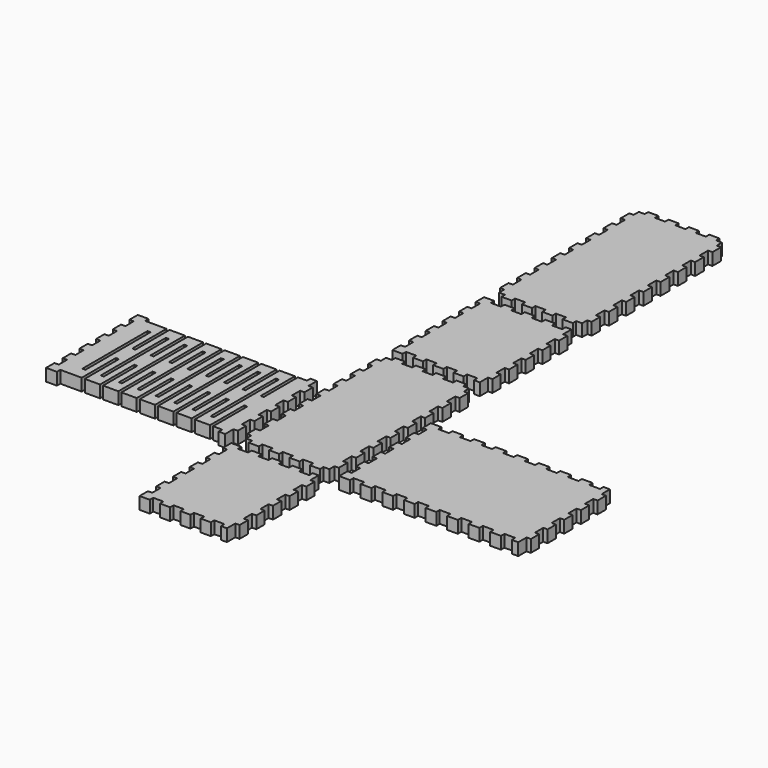
from build123d import *

# Parameters (mm, degrees)
F0_W     = 1.27
F0_H     = 33.893155
F1_DEPTH = 5.08


with BuildPart() as f1:
    # F0 (on Top) → F1 (new body)
    with BuildSketch(Plane.XY):
        Polygon((-17.264052, 57.732358), (-17.264052, 55.035987), (-14.816654, 55.035987), (-14.816654, 53.250048), (-10.583318, 53.250048), (-10.583318, 55.035987), (-6.349982, 55.035987), (-6.349982, 53.250048), (-2.116645, 53.250048), (-2.116645, 55.035987), (2.116691, 55.035987), (2.116691, 53.250048), (6.350027, 53.250048), (6.350027, 55.035987), (10.583363, 55.035987), (10.583363, 53.250048), (14.816699, 53.250048), (14.816699, 55.035987), (17.264097, 55.035987), (17.264097, 57.732358), (19.050036, 57.732358), (19.050036, 62.214799), (17.264097, 62.214799), (17.264097, 66.697109), (19.050036, 66.697109), (19.050036, 71.179418), (17.264097, 71.179418), (17.264097, 75.66186), (19.050036, 75.66186), (19.050036, 80.14417), (17.264097, 80.14417), (17.264097, 84.626479), (19.050036, 84.626479), (19.050036, 89.108921), (17.264097, 89.108921), (17.264097, 93.59123), (19.050036, 93.59123), (19.050036, 98.073539), (17.264097, 98.073539), (17.264097, 102.555981), (19.050036, 102.555981), (19.050036, 107.03829), (17.264097, 107.03829), (17.264097, 111.5206), (19.050036, 111.5206), (19.050036, 116.003041), (17.264097, 116.003041), (17.264097, 120.485351), (19.050036, 120.485351), (19.050036, 124.96766), (17.264097, 124.96766), (17.264097, 127.664163), (14.816699, 127.664163), (14.816699, 129.450102), (10.583363, 129.450102), (10.583363, 127.664163), (6.350027, 127.664163), (6.350027, 129.450102), (2.116691, 129.450102), (2.116691, 127.664163), (-2.116645, 127.664163), (-2.116645, 129.450102), (-6.349982, 129.450102), (-6.349982, 127.664163), (-10.583318, 127.664163), (-10.583318, 129.450102), (-14.816654, 129.450102), (-14.816654, 127.664163), (-17.264052, 127.664163), (-17.264052, 124.96766), (-19.049991, 124.96766), (-19.049991, 120.485351), (-17.264052, 120.485351), (-17.264052, 116.003041), (-19.049991, 116.003041), (-19.049991, 111.5206), (-17.264052, 111.5206), (-17.264052, 107.03829), (-19.049991, 107.03829), (-19.049991, 102.555981), (-17.264052, 102.555981), (-17.264052, 98.073539), (-19.049991, 98.073539), (-19.049991, 93.59123), (-17.264052, 93.59123), (-17.264052, 89.108921), (-19.049991, 89.108921), (-19.049991, 84.626479), (-17.264052, 84.626479), (-17.264052, 80.14417), (-19.049991, 80.14417), (-19.049991, 75.66186), (-17.264052, 75.66186), (-17.264052, 71.179418), (-19.049991, 71.179418), (-19.049991, 66.697109), (-17.264052, 66.697109), (-17.264052, 62.214799), (-19.049991, 62.214799), (-19.049991, 57.732358), align=None)
        Polygon((-19.049991, 6.204586), (-19.049991, 1.874941), (-14.816654, 1.874941), (-14.816654, 3.660879), (-10.583318, 3.660879), (-10.583318, 1.874941), (-6.349982, 1.874941), (-6.349982, 3.660879), (-2.116645, 3.660879), (-2.116645, 1.874941), (2.116691, 1.874941), (2.116691, 3.660879), (6.350027, 3.660879), (6.350027, 1.874941), (10.583363, 1.874941), (10.583363, 3.660879), (14.816699, 3.660879), (14.816699, 1.874941), (17.264097, 1.874941), (17.264097, 6.204586), (19.050036, 6.204586), (19.050036, 10.534098), (17.264097, 10.534098), (17.264097, 14.86361), (19.050036, 14.86361), (19.050036, 19.193123), (17.264097, 19.193123), (17.264097, 23.522767), (19.050036, 23.522767), (19.050036, 27.85228), (17.264097, 27.85228), (17.264097, 32.181792), (19.050036, 32.181792), (19.050036, 36.511437), (17.264097, 36.511437), (17.264097, 40.840949), (19.050036, 40.840949), (19.050036, 45.170462), (17.264097, 45.170462), (17.264097, 49.499974), (14.816699, 49.499974), (14.816699, 47.714035), (10.583363, 47.714035), (10.583363, 49.499974), (6.350027, 49.499974), (6.350027, 47.714035), (2.116691, 47.714035), (2.116691, 49.499974), (-2.116645, 49.499974), (-2.116645, 47.714035), (-6.349982, 47.714035), (-6.349982, 49.499974), (-10.583318, 49.499974), (-10.583318, 47.714035), (-14.816654, 47.714035), (-14.816654, 49.499974), (-19.049991, 49.499974), (-19.049991, 45.170462), (-17.264052, 45.170462), (-17.264052, 40.840949), (-19.049991, 40.840949), (-19.049991, 36.511437), (-17.264052, 36.511437), (-17.264052, 32.181792), (-19.049991, 32.181792), (-19.049991, 27.85228), (-17.264052, 27.85228), (-17.264052, 23.522767), (-19.049991, 23.522767), (-19.049991, 19.193123), (-17.264052, 19.193123), (-17.264052, 14.86361), (-19.049991, 14.86361), (-19.049991, 10.534098), (-17.264052, 10.534098), (-17.264052, 6.204586), align=None)
        Polygon((-17.264052, -73.592706), (-17.264052, -76.289129), (-14.816654, -76.289129), (-14.816654, -78.075068), (-10.583318, -78.075068), (-10.583318, -76.289129), (-6.349982, -76.289129), (-6.349982, -78.075068), (-2.116645, -78.075068), (-2.116645, -76.289129), (2.116691, -76.289129), (2.116691, -78.075068), (6.350027, -78.075068), (6.350027, -76.289129), (10.583363, -76.289129), (10.583363, -78.075068), (14.816699, -78.075068), (14.816699, -76.289129), (17.264097, -76.289129), (17.264097, -73.592706), (19.050036, -73.592706), (19.050036, -69.110356), (17.264097, -69.110356), (17.264097, -64.627994), (19.050036, -64.627994), (19.050036, -60.145645), (17.264097, -60.145645), (17.264097, -55.663283), (19.050036, -55.663283), (19.050036, -51.180934), (17.264097, -51.180934), (17.264097, -46.698572), (19.050036, -46.698572), (19.050036, -42.216223), (17.264097, -42.216223), (17.264097, -37.73386), (19.050036, -37.73386), (19.050036, -33.251511), (17.264097, -33.251511), (17.264097, -28.769149), (19.050036, -28.769149), (19.050036, -24.2868), (17.264097, -24.2868), (17.264097, -19.804437), (19.050036, -19.804437), (19.050036, -15.322075), (17.264097, -15.322075), (17.264097, -10.839726), (19.050036, -10.839726), (19.050036, -6.357364), (17.264097, -6.357364), (17.264097, -3.660954), (14.816699, -3.660954), (14.816699, -1.875015), (10.583363, -1.875015), (10.583363, -3.660954), (6.350027, -3.660954), (6.350027, -1.875015), (2.116691, -1.875015), (2.116691, -3.660954), (-2.116645, -3.660954), (-2.116645, -1.875015), (-6.349982, -1.875015), (-6.349982, -3.660954), (-10.583318, -3.660954), (-10.583318, -1.875015), (-14.816654, -1.875015), (-14.816654, -3.660954), (-17.264052, -3.660954), (-17.264052, -6.357364), (-19.049991, -6.357364), (-19.049991, -10.839726), (-17.264052, -10.839726), (-17.264052, -15.322075), (-19.049991, -15.322075), (-19.049991, -19.804437), (-17.264052, -19.804437), (-17.264052, -24.2868), (-19.049991, -24.2868), (-19.049991, -28.769149), (-17.264052, -28.769149), (-17.264052, -33.251511), (-19.049991, -33.251511), (-19.049991, -37.73386), (-17.264052, -37.73386), (-17.264052, -42.216223), (-19.049991, -42.216223), (-19.049991, -46.698572), (-17.264052, -46.698572), (-17.264052, -51.180934), (-19.049991, -51.180934), (-19.049991, -55.663283), (-17.264052, -55.663283), (-17.264052, -60.145645), (-19.049991, -60.145645), (-19.049991, -64.627994), (-17.264052, -64.627994), (-17.264052, -69.110356), (-19.049991, -69.110356), (-19.049991, -73.592706), align=None)
        Polygon((22.800044, -73.745516), (22.800044, -78.075068), (27.282393, -78.075068), (27.282393, -76.289129), (31.764743, -76.289129), (31.764743, -78.075068), (36.247052, -78.075068), (36.247052, -76.289129), (40.729494, -76.289129), (40.729494, -78.075068), (45.211803, -78.075068), (45.211803, -76.289129), (49.694112, -76.289129), (49.694112, -78.075068), (54.176554, -78.075068), (54.176554, -76.289129), (58.658863, -76.289129), (58.658863, -78.075068), (63.141305, -78.075068), (63.141305, -76.289129), (67.623614, -76.289129), (67.623614, -78.075068), (72.105924, -78.075068), (72.105924, -76.289129), (76.588365, -76.289129), (76.588365, -78.075068), (81.070675, -78.075068), (81.070675, -76.289129), (85.552984, -76.289129), (85.552984, -78.075068), (90.035426, -78.075068), (90.035426, -76.289129), (94.517735, -76.289129), (94.517735, -78.075068), (97.214106, -78.075068), (97.214106, -73.745516), (99.000044, -73.745516), (99.000044, -69.415964), (97.214106, -69.415964), (97.214106, -65.086425), (99.000044, -65.086425), (99.000044, -60.756873), (97.214106, -60.756873), (97.214106, -56.427321), (99.000044, -56.427321), (99.000044, -52.097782), (97.214106, -52.097782), (97.214106, -47.76823), (99.000044, -47.76823), (99.000044, -43.438678), (97.214106, -43.438678), (97.214106, -39.109126), (99.000044, -39.109126), (99.000044, -34.779587), (97.214106, -34.779587), (97.214106, -30.450035), (94.517735, -30.450035), (94.517735, -32.235974), (90.035426, -32.235974), (90.035426, -30.450035), (85.552984, -30.450035), (85.552984, -32.235974), (81.070675, -32.235974), (81.070675, -30.450035), (76.588365, -30.450035), (76.588365, -32.235974), (72.105924, -32.235974), (72.105924, -30.450035), (67.623614, -30.450035), (67.623614, -32.235974), (63.141305, -32.235974), (63.141305, -30.450035), (58.658863, -30.450035), (58.658863, -32.235974), (54.176554, -32.235974), (54.176554, -30.450035), (49.694112, -30.450035), (49.694112, -32.235974), (45.211803, -32.235974), (45.211803, -30.450035), (40.729494, -30.450035), (40.729494, -32.235974), (36.247052, -32.235974), (36.247052, -30.450035), (31.764743, -30.450035), (31.764743, -32.235974), (27.282393, -32.235974), (27.282393, -30.450035), (22.800044, -30.450035), (22.800044, -34.779587), (24.585983, -34.779587), (24.585983, -39.109126), (22.800044, -39.109126), (22.800044, -43.438678), (24.585983, -43.438678), (24.585983, -47.76823), (22.800044, -47.76823), (22.800044, -52.097782), (24.585983, -52.097782), (24.585983, -56.427321), (22.800044, -56.427321), (22.800044, -60.756873), (24.585983, -60.756873), (24.585983, -65.086425), (22.800044, -65.086425), (22.800044, -69.415964), (24.585983, -69.415964), (24.585983, -73.745516), align=None)
        Polygon((-19.049991, -125.120553), (-19.049991, -129.450102), (-14.816654, -129.450102), (-14.816654, -127.664163), (-10.583318, -127.664163), (-10.583318, -129.450102), (-6.349982, -129.450102), (-6.349982, -127.664163), (-2.116645, -127.664163), (-2.116645, -129.450102), (2.116691, -129.450102), (2.116691, -127.664163), (6.350027, -127.664163), (6.350027, -129.450102), (10.583363, -129.450102), (10.583363, -127.664163), (14.816699, -127.664163), (14.816699, -129.450102), (17.264097, -129.450102), (17.264097, -125.120553), (19.050036, -125.120553), (19.050036, -120.791006), (17.264097, -120.791006), (17.264097, -116.461454), (19.050036, -116.461454), (19.050036, -112.131915), (17.264097, -112.131915), (17.264097, -107.802362), (19.050036, -107.802362), (19.050036, -103.47281), (17.264097, -103.47281), (17.264097, -99.143258), (19.050036, -99.143258), (19.050036, -94.813719), (17.264097, -94.813719), (17.264097, -90.484167), (19.050036, -90.484167), (19.050036, -86.154615), (17.264097, -86.154615), (17.264097, -81.825063), (14.816699, -81.825063), (14.816699, -83.611002), (10.583363, -83.611002), (10.583363, -81.825063), (6.350027, -81.825063), (6.350027, -83.611002), (2.116691, -83.611002), (2.116691, -81.825063), (-2.116645, -81.825063), (-2.116645, -83.611002), (-6.349982, -83.611002), (-6.349982, -81.825063), (-10.583318, -81.825063), (-10.583318, -83.611002), (-14.816654, -83.611002), (-14.816654, -81.825063), (-19.049991, -81.825063), (-19.049991, -86.154615), (-17.264052, -86.154615), (-17.264052, -90.484167), (-19.049991, -90.484167), (-19.049991, -94.813719), (-17.264052, -94.813719), (-17.264052, -99.143258), (-19.049991, -99.143258), (-19.049991, -103.47281), (-17.264052, -103.47281), (-17.264052, -107.802362), (-19.049991, -107.802362), (-19.049991, -112.131915), (-17.264052, -112.131915), (-17.264052, -116.461454), (-19.049991, -116.461454), (-19.049991, -120.791006), (-17.264052, -120.791006), (-17.264052, -125.120553), align=None)
        Polygon((-99.000044, -73.745516), (-99.000044, -78.075068), (-94.517689, -78.075068), (-94.517689, -76.289129), (-85.627689, -76.289129), (-85.627689, -58.509129), (-84.357689, -58.509129), (-84.357689, -76.289129), (-78.007689, -76.289129), (-78.007689, -58.509129), (-76.737689, -58.509129), (-76.737689, -76.289129), (-70.387689, -76.289129), (-70.387689, -58.509129), (-69.117689, -58.509129), (-69.117689, -76.289129), (-62.767689, -76.289129), (-62.767689, -58.509129), (-61.497689, -58.509129), (-61.497689, -76.289129), (-55.147689, -76.289129), (-55.147689, -58.509129), (-53.877689, -58.509129), (-53.877689, -76.289129), (-47.527689, -76.289129), (-47.527689, -58.509129), (-46.257689, -58.509129), (-46.257689, -76.289129), (-39.907689, -76.289129), (-39.907689, -58.509129), (-38.637689, -58.509129), (-38.637689, -76.289129), (-32.287689, -76.289129), (-32.287689, -58.509129), (-31.017689, -58.509129), (-31.017689, -76.289129), (-27.282348, -76.289129), (-27.282348, -78.075068), (-24.585925, -78.075068), (-24.585925, -73.745516), (-22.799986, -73.745516), (-22.799986, -69.415964), (-24.585925, -69.415964), (-24.585925, -65.086425), (-22.799986, -65.086425), (-22.799986, -60.756873), (-24.585925, -60.756873), (-24.585925, -56.427321), (-22.799986, -56.427321), (-22.799986, -52.097782), (-24.585925, -52.097782), (-24.585925, -47.76823), (-22.799986, -47.76823), (-22.799986, -43.438678), (-24.585925, -43.438678), (-24.585925, -39.109126), (-22.799986, -39.109126), (-22.799986, -34.779587), (-24.585925, -34.779587), (-24.585925, -30.450035), (-27.282348, -30.450035), (-27.282348, -32.235974), (-31.017689, -32.235974), (-31.017689, -50.015974), (-32.287689, -50.015974), (-32.287689, -32.235974), (-38.637689, -32.235974), (-38.637689, -50.015974), (-39.907689, -50.015974), (-39.907689, -32.235974), (-46.257689, -32.235974), (-46.257689, -50.015974), (-47.527689, -50.015974), (-47.527689, -32.235974), (-53.877689, -32.235974), (-53.877689, -50.015974), (-55.147689, -50.015974), (-55.147689, -32.235974), (-61.497689, -32.235974), (-61.497689, -50.015974), (-62.767689, -50.015974), (-62.767689, -32.235974), (-69.117689, -32.235974), (-69.117689, -50.015974), (-70.387689, -50.015974), (-70.387689, -32.235974), (-76.737689, -32.235974), (-76.737689, -50.015974), (-78.007689, -50.015974), (-78.007689, -32.235974), (-84.357689, -32.235974), (-84.357689, -50.015974), (-85.627689, -50.015974), (-85.627689, -32.235974), (-94.517689, -32.235974), (-94.517689, -30.450035), (-99.000044, -30.450035), (-99.000044, -34.779587), (-97.214106, -34.779587), (-97.214106, -39.109126), (-99.000044, -39.109126), (-99.000044, -43.438678), (-97.214106, -43.438678), (-97.214106, -47.76823), (-99.000044, -47.76823), (-99.000044, -52.097782), (-97.214106, -52.097782), (-97.214106, -56.427321), (-99.000044, -56.427321), (-99.000044, -60.756873), (-97.214106, -60.756873), (-97.214106, -65.086425), (-99.000044, -65.086425), (-99.000044, -69.415964), (-97.214106, -69.415964), (-97.214106, -73.745516), align=None)
        with Locations((-88.802689, -54.262551)):
            Rectangle(F0_W, F0_H, mode=Mode.SUBTRACT)
        with Locations((-81.182689, -54.262551)):
            Rectangle(F0_W, F0_H, mode=Mode.SUBTRACT)
        with Locations((-73.562689, -54.262551)):
            Rectangle(F0_W, F0_H, mode=Mode.SUBTRACT)
        with Locations((-65.942689, -54.262551)):
            Rectangle(F0_W, F0_H, mode=Mode.SUBTRACT)
        with Locations((-58.322689, -54.262551)):
            Rectangle(F0_W, F0_H, mode=Mode.SUBTRACT)
        with Locations((-50.702689, -54.262551)):
            Rectangle(F0_W, F0_H, mode=Mode.SUBTRACT)
        with Locations((-43.082689, -54.262551)):
            Rectangle(F0_W, F0_H, mode=Mode.SUBTRACT)
        with Locations((-35.462689, -54.262551)):
            Rectangle(F0_W, F0_H, mode=Mode.SUBTRACT)
    extrude(amount=F1_DEPTH)


solid = f1.part
